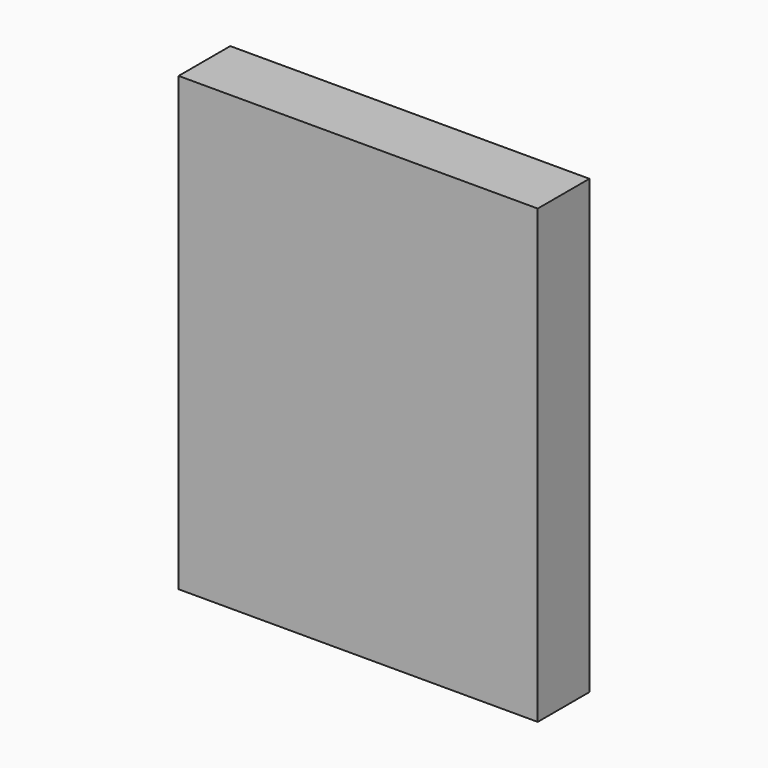
from build123d import *

# Parameters (mm, degrees)
F0_W     = 140
F0_H     = 140
F1_DEPTH = 20
F3_DEPTH = 10
F4_DEPTH = 28.75


with BuildPart() as f1:
    # F0 (on Front) → F1 (new body)
    with BuildSketch(Plane.XZ):
        Rectangle(F0_W, F0_H)
        Rectangle(F0_W, F0_H)
    extrude(amount=F1_DEPTH)

    # F2 (on face) → F3 (cut)
    with BuildSketch(Plane(origin=(-70, 0, 0), x_dir=(0, -1, 0), z_dir=(-1, 0, 0))):
        with BuildLine():
            Line((6.825, 35.0000062), (13.175, 35.0000062))
            ThreePointArc((13.175, 35.0000062), (10, 38.1750062), (6.825, 35.0000062))
        make_face()
        with BuildLine():
            ThreePointArc((6.825, 35.0000062), (10, 31.8250062), (13.175, 35.0000062))
            Line((13.175, 35.0000062), (6.825, 35.0000062))
        make_face()
        with BuildLine():
            Line((6.825, 0), (13.175, 0))
            ThreePointArc((13.175, 0), (10, 3.175), (6.825, 0))
        make_face()
        with BuildLine():
            ThreePointArc((6.825, 0), (10, -3.175), (13.175, 0))
            Line((13.175, 0), (6.825, 0))
        make_face()
        with BuildLine():
            Line((6.825, -35.0000062), (13.175, -35.0000062))
            ThreePointArc((13.175, -35.0000062), (10, -31.8250062), (6.825, -35.0000062))
        make_face()
        with BuildLine():
            ThreePointArc((6.825, -35.0000062), (10, -38.1750062), (13.175, -35.0000062))
            Line((13.175, -35.0000062), (6.825, -35.0000062))
        make_face()
    extrude(amount=-F3_DEPTH, mode=Mode.SUBTRACT)

    # F4 (cut): a face of the model
    f4_faces = [f1.faces().sort_by_distance(p)[0] for p in [
        (70, -10, 0),
    ]]
    extrude(f4_faces, amount=-F4_DEPTH, mode=Mode.SUBTRACT)


solid = f1.part
